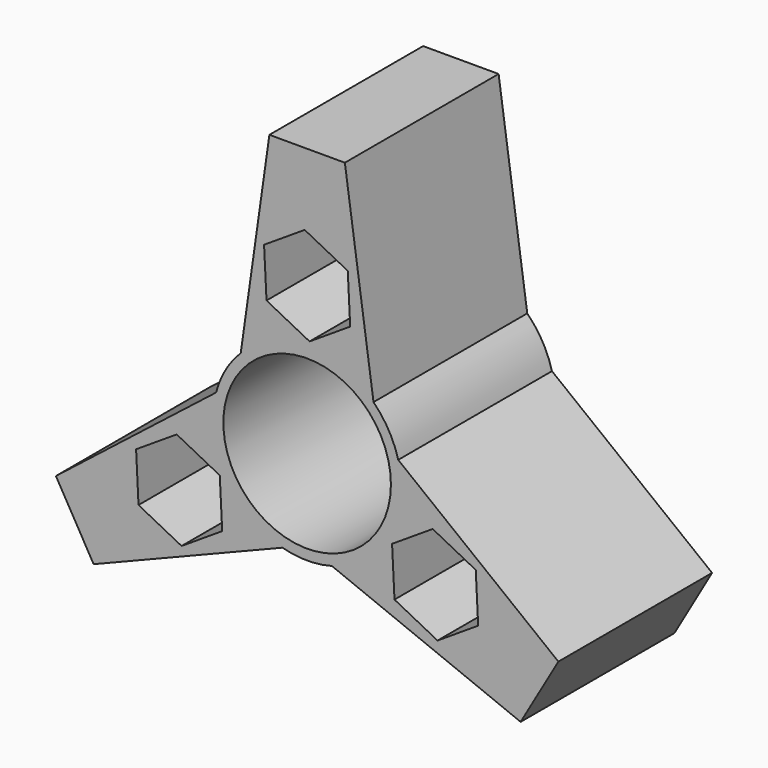
from build123d import *

# Parameters (mm, degrees)
F0_R     = 10.9
F1_DEPTH = 25


with BuildPart() as f1:
    # F0 (on Front) → F1 (new body)
    with BuildSketch(Plane.XZ):
        with BuildLine():
            Line((-4.909692, 34.903756), (-8.6357, 8.698229))
            ThreePointArc((-8.6357, 8.698229), (-10.61489, 6.128509), (-11.850737, 3.129621))
            Line((-11.850737, 3.129621), (-32.682386, -13.19996))
            Line((-32.682386, -13.19996), (-30.22754, -17.451878))
            Line((-30.22754, -17.451878), (-27.772694, -21.703796))
            Line((-27.772694, -21.703796), (-3.215038, -11.82785))
            ThreePointArc((-3.215038, -11.82785), (0, -12.257019), (3.215038, -11.82785))
            Line((3.215038, -11.82785), (27.772694, -21.703796))
            Line((27.772694, -21.703796), (30.22754, -17.451878))
            Line((30.22754, -17.451878), (32.682386, -13.19996))
            Line((32.682386, -13.19996), (11.850737, 3.129621))
            ThreePointArc((11.850737, 3.129621), (10.61489, 6.128509), (8.6357, 8.698229))
            Line((8.6357, 8.698229), (4.909692, 34.903756))
            Line((4.909692, 34.903756), (0, 34.903756))
            Line((0, 34.903756), (-4.909692, 34.903756))
        make_face()
        Polygon((-16.33297, -15.897677), (-21.934277, -13.029107), (-22.250676, -6.743948), (-16.965768, -3.327359), (-11.364461, -6.195929), (-11.048062, -12.481088), align=None, mode=Mode.SUBTRACT)
        Polygon((21.934277, -6.195929), (22.250676, -12.481088), (16.965768, -15.897677), (11.364461, -13.029107), (11.048062, -6.743948), (16.33297, -3.327359), align=None, mode=Mode.SUBTRACT)
        Circle(F0_R, mode=Mode.SUBTRACT)
        Polygon((5.601307, 16.356466), (0.316399, 12.939876), (-5.284908, 15.808446), (-5.601307, 22.093605), (-0.316399, 25.510195), (5.284908, 22.641625), align=None, mode=Mode.SUBTRACT)
    extrude(amount=F1_DEPTH)


solid = f1.part
